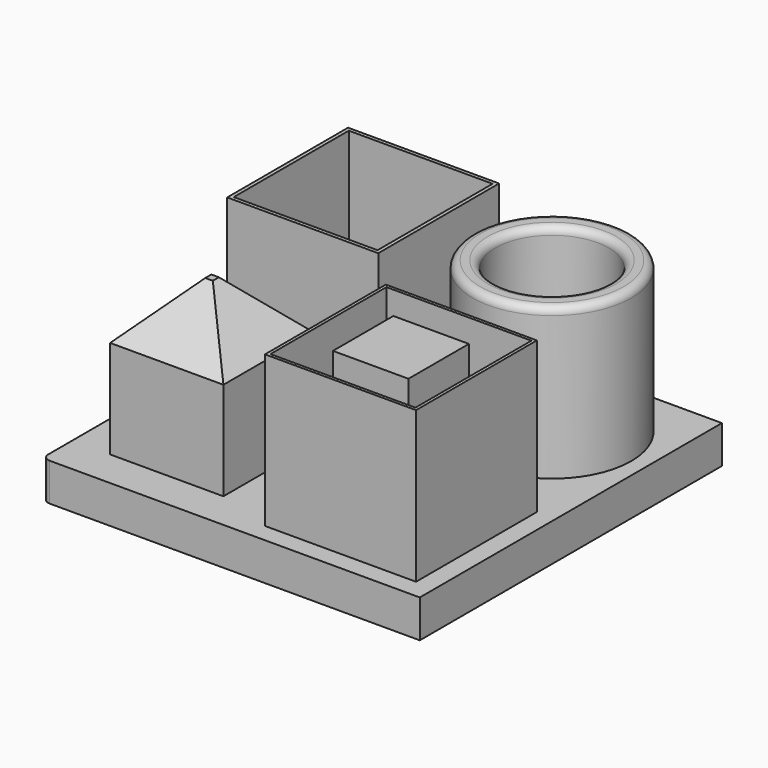
from build123d import *

# Parameters (mm, degrees)
F0_W     = 50
F0_H     = 50
F0_W_2   = 15
F0_H_2   = 15
F0_W_3   = 20
F0_H_3   = 20
F0_R     = 10.5
F0_W_4   = 19.04
F0_H_4   = 19.04
F0_W_5   = 19.2
F0_H_5   = 19.2
F0_W_6   = 10
F0_H_6   = 10
F0_R_2   = 7.5
F1_DEPTH = 5
F2_DEPTH = 25
F3_DEPTH = 25
F4_DEPTH = 25
F5_DEPTH = 25
F6_R     = 1
F7_SIZE  = 7


with BuildPart() as f1:
    # F0 (on Top) → F1 (new body)
    with BuildSketch(Plane.XY):
        Rectangle(F0_W, F0_H)
        with Locations((-12.5, -12.5)):
            Rectangle(F0_W_2, F0_H_2, mode=Mode.SUBTRACT)
        with Locations((12.5, -12.5)):
            Rectangle(F0_W_3, F0_H_3, mode=Mode.SUBTRACT)
        with Locations((-12.5, 12.500000177)):
            Rectangle(F0_W_3, F0_H_3, mode=Mode.SUBTRACT)
        with Locations((12.5, 12.500000177)):
            Circle(F0_R, mode=Mode.SUBTRACT)
        with Locations((-12.5, 12.500000177)):
            Rectangle(F0_W_3, F0_H_3)
        with Locations((-12.5, 12.500000177)):
            Rectangle(F0_W_4, F0_H_4, mode=Mode.SUBTRACT)
        with Locations((12.5, -12.5)):
            Rectangle(F0_W_3, F0_H_3)
        with Locations((12.5, -12.5)):
            Rectangle(F0_W_5, F0_H_5, mode=Mode.SUBTRACT)
        with Locations((12.5, -12.5)):
            Rectangle(F0_W_5, F0_H_5)
        with Locations((12.5, -12.5)):
            Rectangle(F0_W_6, F0_H_6, mode=Mode.SUBTRACT)
        with Locations((-12.5, 12.500000177)):
            Rectangle(F0_W_4, F0_H_4)
        with Locations((12.5, 12.500000177)):
            Circle(F0_R)
        with Locations((12.5, 12.500000177)):
            Circle(F0_R_2, mode=Mode.SUBTRACT)
        with Locations((-12.5, -12.5)):
            Rectangle(F0_W_2, F0_H_2)
        with Locations((12.5, 12.500000177)):
            Circle(F0_R_2)
        with Locations((12.5, -12.5)):
            Rectangle(F0_W_6, F0_H_6)
    extrude(amount=F1_DEPTH)

    # F0 (on Top) → F2 (join)
    with BuildSketch(Plane.XY):
        with Locations((-12.5, 12.500000177)):
            Rectangle(F0_W_3, F0_H_3)
        with Locations((-12.5, 12.500000177)):
            Rectangle(F0_W_4, F0_H_4, mode=Mode.SUBTRACT)
    extrude(amount=F2_DEPTH)

    # F0 (on Top) → F3 (join)
    with BuildSketch(Plane.XY):
        with Locations((12.5, -12.5)):
            Rectangle(F0_W_3, F0_H_3)
        with Locations((12.5, -12.5)):
            Rectangle(F0_W_5, F0_H_5, mode=Mode.SUBTRACT)
        with Locations((12.5, -12.5)):
            Rectangle(F0_W_6, F0_H_6)
    extrude(amount=F3_DEPTH)

    # F0 (on Top) → F4 (join)
    with BuildSketch(Plane.XY):
        with Locations((-12.5, -12.5)):
            Rectangle(F0_W_2, F0_H_2)
    extrude(amount=F4_DEPTH)

    # F0 (on Top) → F5 (join)
    with BuildSketch(Plane.XY):
        with Locations((12.5, 12.500000177)):
            Circle(F0_R)
        with Locations((12.5, 12.500000177)):
            Circle(F0_R_2, mode=Mode.SUBTRACT)
    extrude(amount=F5_DEPTH)

    # F6
    f6_edges = [f1.edges().sort_by_distance(p)[0] for p in [
        (-25, -25, 2.5),
        (2, 12.5, 25),
        (5, 12.5, 25),
    ]]
    fillet(f6_edges, radius=F6_R)

    # F7
    f7_edges = [f1.edges().sort_by_distance(p)[0] for p in [
        (-12.5, -5, 25),
        (-20, -12.5, 25),
        (-12.5, -20, 25),
        (-5, -12.5, 25),
    ]]
    chamfer(f7_edges, length=F7_SIZE)


solid = f1.part
